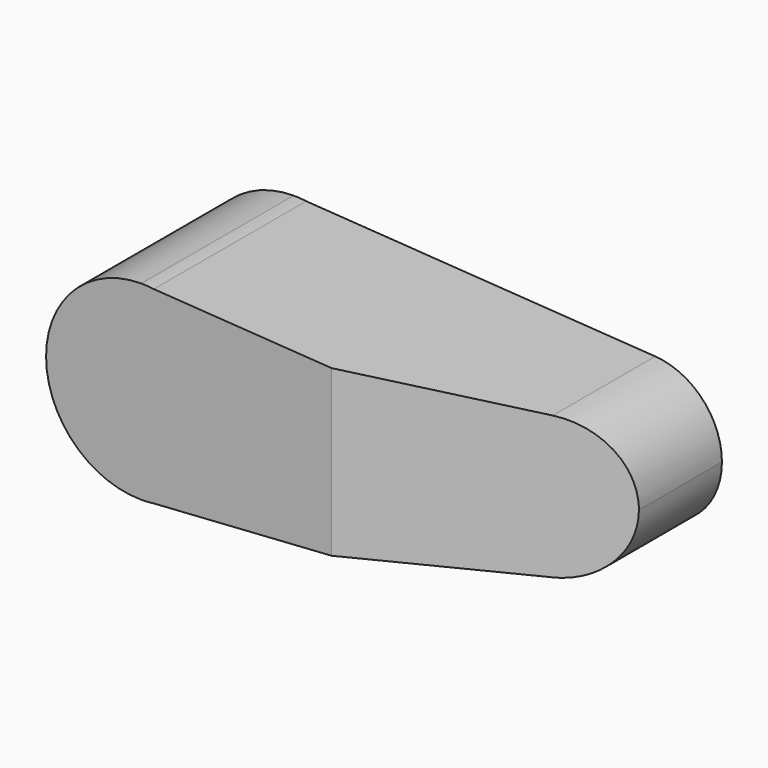
from build123d import *

# Parameters (mm, degrees)
F1_DEPTH = 25.4
F3_DEPTH = 12.7


with BuildPart() as f1:
    # F0 (on Front) → F1 (new body)
    with BuildSketch(Plane.XZ):
        with BuildLine():
            Line((1.674858, 12.589077), (0, 12.7))
            ThreePointArc((0, 12.7), (-12.7, 0), (0, -12.7))
            Line((0, -12.7), (1.674858, -12.589077))
            ThreePointArc((1.674858, -12.589077), (9.554075, -8.367177), (12.7, 0))
            ThreePointArc((12.7, 0), (9.554075, 8.367177), (1.674858, 12.589077))
        make_face()
        with BuildLine():
            ThreePointArc((1.674858, 12.589077), (0.839264, 12.672239), (0, 12.7))
            Line((0, 12.7), (1.674858, 12.589077))
        make_face()
        with BuildLine():
            Line((1.674858, -12.589077), (0, -12.7))
            ThreePointArc((0, -12.7), (0.839264, -12.672239), (1.674858, -12.589077))
        make_face()
        with BuildLine():
            Line((48.254448, 9.504179), (1.674858, 12.589077))
            ThreePointArc((1.674858, 12.589077), (9.554075, 8.367177), (12.7, 0))
            ThreePointArc((12.7, 0), (9.554075, -8.367177), (1.674858, -12.589077))
            Line((1.674858, -12.589077), (48.254448, -9.504179))
            ThreePointArc((48.254448, -9.504179), (38.1, 0), (48.254448, 9.504179))
        make_face()
        with BuildLine():
            ThreePointArc((57.15, 0), (54.579176, 6.508845), (48.254448, 9.504179))
            ThreePointArc((48.254448, 9.504179), (38.1, 0), (48.254448, -9.504179))
            ThreePointArc((48.254448, -9.504179), (54.579176, -6.508845), (57.15, 0))
        make_face()
    extrude(amount=-F1_DEPTH)

    # F2 (on Top) → F3 (cut, symmetric)
    with BuildSketch(Plane.XY):
        Polygon((25.4, 0), (57.15, 0), (57.15, 11.556055), align=None)
    extrude(amount=F3_DEPTH, both=True, mode=Mode.SUBTRACT)


solid = f1.part
